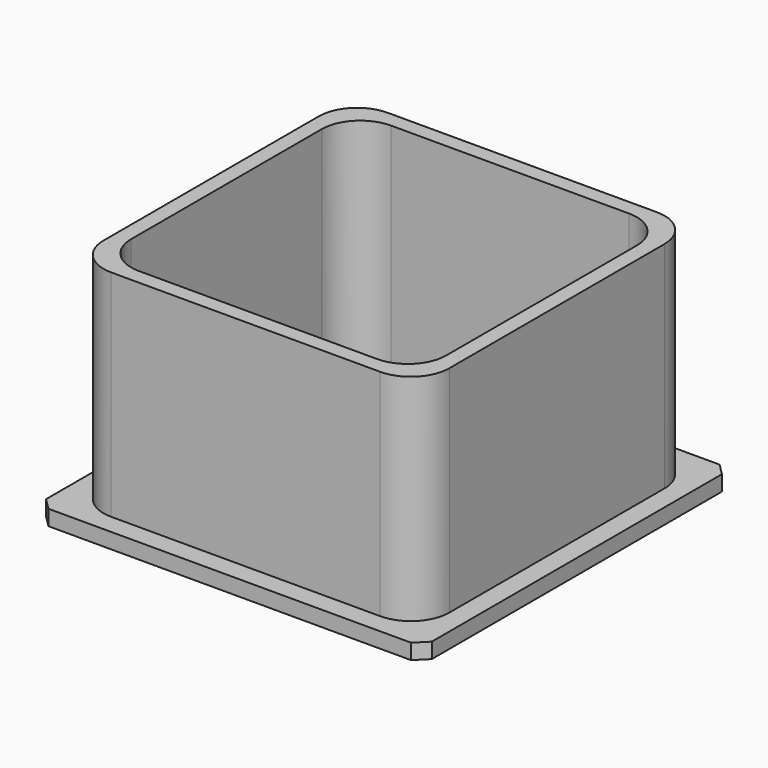
from build123d import *

# Parameters (mm, degrees)
F0_W     = 45
F0_H     = 45
F0_R     = 2.5
F1_DEPTH = 30
F0_W_2   = 50.2
F0_H_2   = 50.2
F2_DEPTH = 2
F3_T     = -2
F4_R     = 5
F5_SIZE  = 1.5


with BuildPart() as f1:
    # F0 (on Top) → F1 (new body)
    with BuildSketch(Plane.XY):
        Rectangle(F0_W, F0_H)
        Circle(F0_R, mode=Mode.SUBTRACT)
    extrude(amount=F1_DEPTH)

    # F0 (on Top) → F2 (join)
    with BuildSketch(Plane.XY):
        Rectangle(F0_W_2, F0_H_2)
        Rectangle(F0_W, F0_H, mode=Mode.SUBTRACT)
    extrude(amount=F2_DEPTH)

    # F3
    f3_openings = [f1.faces().sort_by_distance(p)[0] for p in [
        (0, 21.863604, 30),
        (-2.5, 0, 15),
    ]]
    offset(amount=F3_T, openings=f3_openings, kind=Kind.INTERSECTION)

    # F4
    f4_edges = [f1.edges().sort_by_distance(p)[0] for p in [
        (-22.5, -22.5, 16),
        (22.5, -22.5, 16),
        (22.5, 22.5, 16),
        (-22.5, 22.5, 16),
        (20.5, 20.5, 16),
        (-20.5, 20.5, 16),
        (-20.5, -20.5, 16),
        (20.5, -20.5, 16),
    ]]
    fillet(f4_edges, radius=F4_R)

    # F5
    f5_edges = [f1.edges().sort_by_distance(p)[0] for p in [
        (25.1, 25.1, 1),
        (25.1, -25.1, 1),
        (-25.1, 25.1, 1),
        (-25.1, -25.1, 1),
    ]]
    chamfer(f5_edges, length=F5_SIZE)


solid = f1.part
